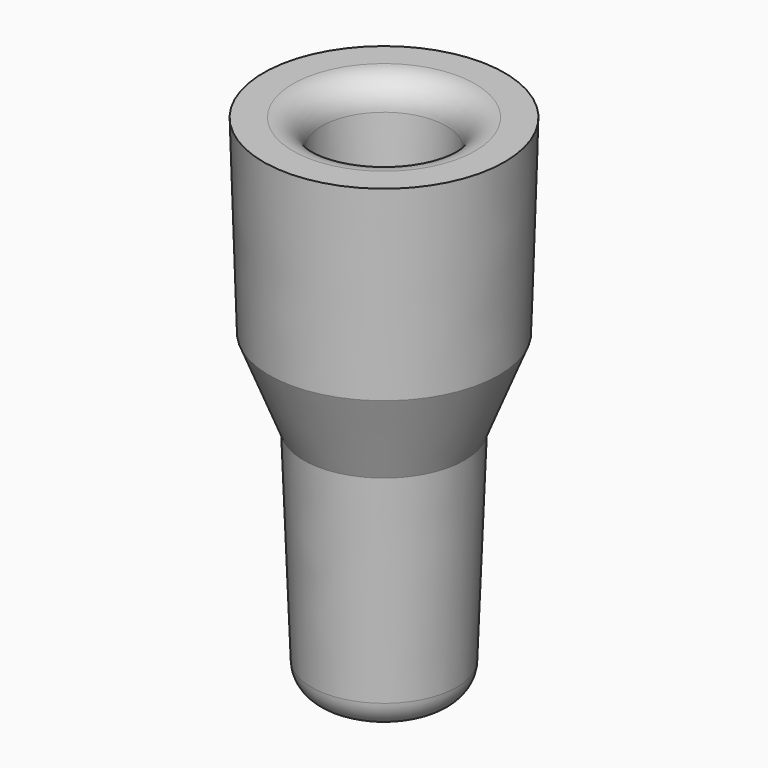
from build123d import *

# Parameters (mm, degrees)
CYLINDER117_R     = 1.2
CYLINDER117_DEPTH = 100
FILLET009_R       = 1
FILLET010_R       = 1


with BuildPart() as obj1:
    # Cylinder117 → Cylinder117 (new body)
    with BuildSketch(Plane.XY.offset(-50)):
        Circle(CYLINDER117_R)
    extrude(amount=CYLINDER117_DEPTH)


with BuildPart() as obj2:
    # Cone009 → Cone009 (revolve)
    with BuildSketch(Plane(origin=(0, 0, -3), x_dir=(1, 0, 0), z_dir=(0, -1, 0))):
        Polygon((0, 0), (1.2, 0), (2, 3), (0, 3), align=None)
    revolve(axis=Axis((0, 0, -3), (0, 0, 1)))


with BuildPart() as syringe_tip_hole_fusion001:
    # Cone005 → Cone005 (revolve)
    with BuildSketch(Plane.XZ):
        Polygon((0, 0), (2, 0), (2.2, 6.6), (0, 6.6), align=None)
    revolve(axis=Axis((0, 0, 0), (0, 0, 1)))

    # Fusion019: union obj1, obj2
    add(obj1.part)
    add(obj2.part)


with BuildPart() as obj3:
    # Cone008 → Cone008 (revolve)
    with BuildSketch(Plane(origin=(0, 0, -3), x_dir=(1, 0, 0), z_dir=(0, -1, 0))):
        Polygon((0, 0), (2.8, 0), (4, 3), (0, 3), align=None)
    revolve(axis=Axis((0, 0, -3), (0, 0, 1)))


with BuildPart() as obj4:
    # Cone007 → Cone007 (revolve)
    with BuildSketch(Plane(origin=(0, 0, -11), x_dir=(1, 0, 0), z_dir=(0, -1, 0))):
        Polygon((0, 0), (2.5, 0), (2.8, 8), (0, 8), align=None)
    revolve(axis=Axis((0, 0, -11), (0, 0, 1)))

    # Fillet009
    fillet009_edges = [obj4.edges().sort_by_distance(p)[0] for p in [
        (-2.5, 0, -11),
    ]]
    fillet(fillet009_edges, radius=FILLET009_R)


with BuildPart() as syringe_tip_cut_fillet001:
    # Cone006 → Cone006 (revolve)
    with BuildSketch(Plane.XZ):
        Polygon((0, 0), (4, 0), (4.2, 6.6), (0, 6.6), align=None)
    revolve(axis=Axis((0, 0, 0), (0, 0, 1)))

    # Fusion018: union obj3, obj4
    add(obj3.part)
    add(obj4.part)

    # Cut013: cut syringe tip hole fusion001
    add(syringe_tip_hole_fusion001.part, mode=Mode.SUBTRACT)

    # Fillet010
    fillet010_edges = [syringe_tip_cut_fillet001.edges().sort_by_distance(p)[0] for p in [
        (-2.2, 0, 6.6),
    ]]
    fillet(fillet010_edges, radius=FILLET010_R)


solid = syringe_tip_cut_fillet001.part
